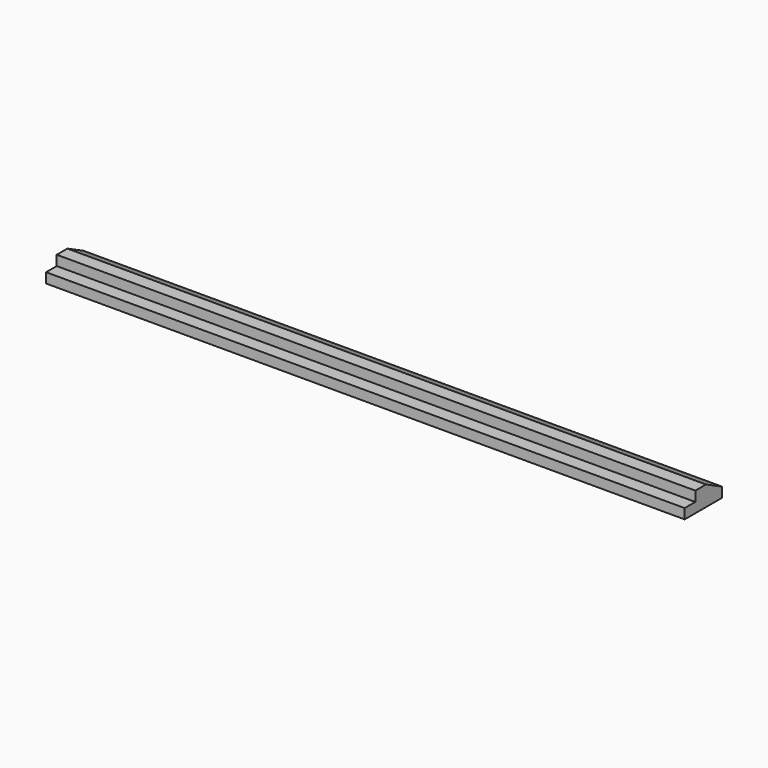
from build123d import *

# Parameters (mm, degrees)
F0_W     = 1219.2
F0_H     = 63.5
F1_DEPTH = 19.05
F0_H_2   = 25.4
F2_DEPTH = 19.05
F3_SIZE2 = 38.1
F3_SIZE  = 19.05


with BuildPart() as f1:
    # F0 (on Top) → F1 (new body)
    with BuildSketch(Plane.XY):
        with Locations((353.564252, 15.255763)):
            Rectangle(F0_W, F0_H)
    extrude(amount=F1_DEPTH)

    # F0 (on Top) → F2 (join)
    with BuildSketch(Plane.XY):
        with Locations((353.564252, 15.255763)):
            Rectangle(F0_W, F0_H)
        with Locations((353.564252, -29.194237)):
            Rectangle(F0_W, F0_H_2)
    extrude(amount=-F2_DEPTH)

    # F3
    f3_edges = [f1.edges().sort_by_distance(p)[0] for p in [
        (353.564252, 47.005763, 19.05),
    ]]
    chamfer(f3_edges, length=F3_SIZE, length2=F3_SIZE2)


solid = f1.part
